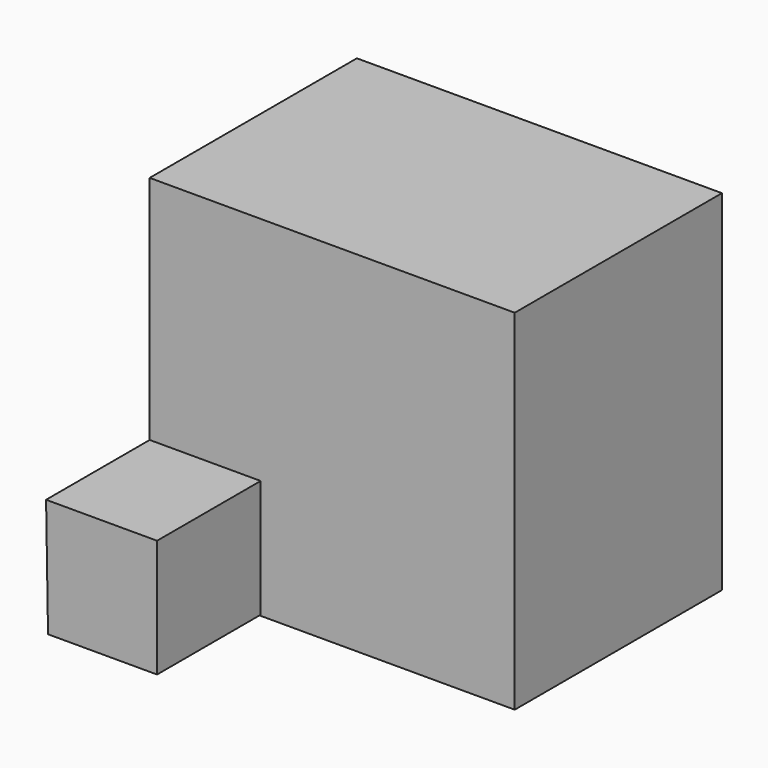
from build123d import *

# Parameters (mm, degrees)
F0_W     = 71.607996
F0_H     = 68.552719
F1_DEPTH = 50.8
F4_DEPTH = 25.4


with BuildPart() as f1:
    # F0 (on Front) → F1 (new body)
    with BuildSketch(Plane.XZ):
        with Locations((-3.246227, 5.155774)):
            Rectangle(F0_W, F0_H)
    extrude(amount=F1_DEPTH)

    # F3 (on face) → F4 (join)
    with BuildSketch(Plane.XZ.offset(50.8)):
        Polygon((-39.050225, -5.824117), (-38.668316, -28.92963), (-17.281396, -28.92963), (-17.281396, -5.824117), align=None)
    extrude(amount=F4_DEPTH)


solid = f1.part
